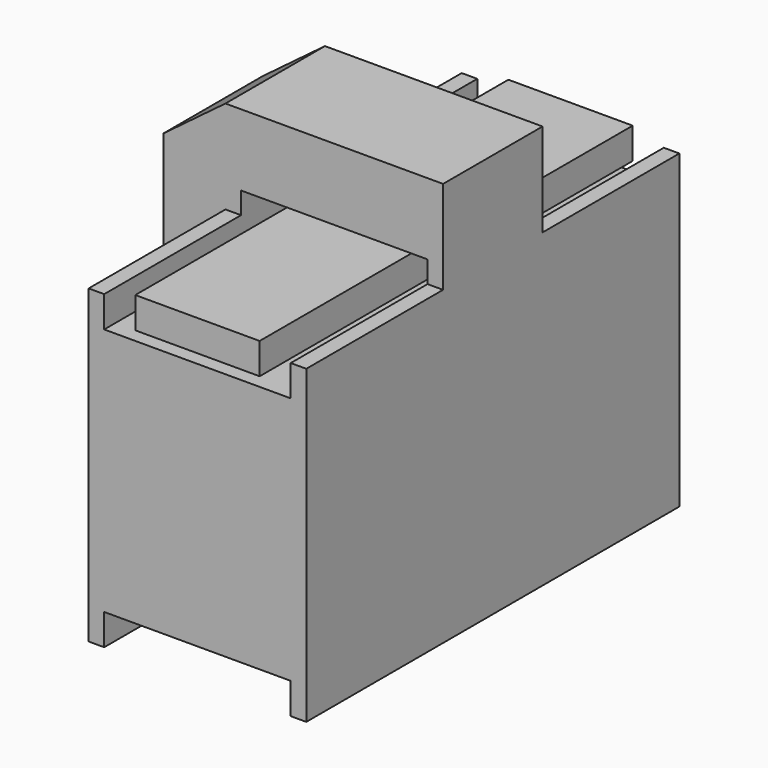
from build123d import *

# Parameters (mm, degrees)
F1_DEPTH = 1500
F0_W     = 400
F0_H     = 100
F4_DEPTH = 400


with BuildPart() as f1:
    # F0 (on Front) → F1 (new body)
    with BuildSketch(Plane.XZ):
        Polygon((0, 1000), (0, 0), (50, 0), (50, 100), (650, 100), (650, 0), (700, 0), (700, 1000), (650, 1000), (650, 900), (50, 900), (50, 1000), align=None)
    extrude(amount=F1_DEPTH)

    # F3 (on offset) → F4 (join)
    with BuildSketch(Plane.XZ.offset(950)):
        Polygon((0, 1000), (50, 1000), (50, 1070), (650, 1070), (650, 1000), (700, 1000), (700, 1300), (0, 1300), (-200, 1150), (-200, 800), (0, 800), align=None)
    extrude(amount=-F4_DEPTH)


with BuildPart() as f1b:
    # F0 (on Front) → F1, piece 2 (new body)
    with BuildSketch(Plane.XZ):
        with Locations((350, 980)):
            Rectangle(F0_W, F0_H)
    extrude(amount=F1_DEPTH)


solid = Compound([f1.part, f1b.part])
